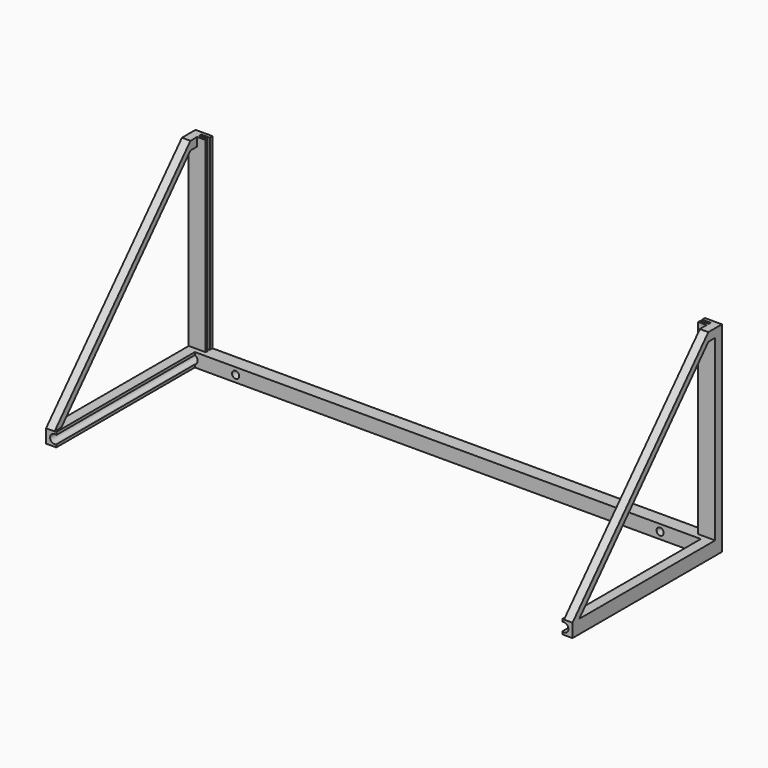
from build123d import *

# Parameters (mm, degrees)
SKETCH_W        = 310
SKETCH_H        = 110
PAD_DEPTH       = 8
PAD001_DEPTH    = 110
POCKET_DEPTH    = 500
POCKET001_DEPTH = 500
SKETCH006_R     = 2.625
POCKET002_DEPTH = 500
SKETCH007_W     = 298
SKETCH007_H     = 8
POCKET003_DEPTH = 102
SKETCH009_W     = 300
SKETCH009_H     = 1.5
POCKET004_DEPTH = 110
SKETCH010_W     = 290
SKETCH010_H     = 10
POCKET005_DEPTH = 110
SKETCH011_R     = 2.1
POCKET006_DEPTH = 500


with BuildPart() as part:
    # Sketch → Pad (new body)
    with BuildSketch(Plane.XY):
        with Locations((155, 55)):
            Rectangle(SKETCH_W, SKETCH_H)
    extrude(amount=PAD_DEPTH)

    # Sketch001 (on Face6 of Pad) → Pad001 (join)
    with BuildSketch(Plane.XY.offset(8)):
        Polygon((0, 0), (0, 110), (310, 110), (310, 0), (305, 0), (305, 105), (5, 105), (5, 0), align=None)
    extrude(amount=PAD001_DEPTH)

    # Sketch004 (on Face9 of Pad001) → Pocket (cut)
    with BuildSketch(Plane(origin=(0, 0, 0), x_dir=(0, -1, 0), z_dir=(-1, 0, 0))):
        Polygon((-100, 118), (0, 118), (0, 8), align=None)
    extrude(amount=-POCKET_DEPTH, mode=Mode.SUBTRACT)

    # Sketch005 (on Face9 of Pocket) → Pocket001 (cut)
    with BuildSketch(Plane(origin=(0, 0, 0), x_dir=(0, -1, 0), z_dir=(-1, 0, 0))):
        Polygon((-100, 113), (-5, 8), (-105, 8), (-105, 113), align=None)
    extrude(amount=-POCKET001_DEPTH, mode=Mode.SUBTRACT)

    # Sketch006 (on Face1 of Pocket001) → Pocket002 (cut)
    with BuildSketch(Plane.XZ):
        with Locations((5, 4)):
            Circle(SKETCH006_R)
        with Locations((305, 4)):
            Circle(SKETCH006_R)
    extrude(amount=-POCKET002_DEPTH, mode=Mode.SUBTRACT)

    # Sketch007 (on Face1 of Pocket002) → Pocket003 (cut)
    with BuildSketch(Plane.XZ):
        with Locations((155, 4)):
            Rectangle(SKETCH007_W, SKETCH007_H)
    extrude(amount=-POCKET003_DEPTH, mode=Mode.SUBTRACT)

    # Sketch009 (on Face17 of Pocket003) → Pocket004 (cut)
    with BuildSketch(Plane.XY.offset(118)):
        with Locations((155, 107.25)):
            Rectangle(SKETCH009_W, SKETCH009_H)
    extrude(amount=-POCKET004_DEPTH, mode=Mode.SUBTRACT)

    # Sketch010 (on Face17 of Pocket004) → Pocket005 (cut)
    with BuildSketch(Plane.XY.offset(118)):
        with Locations((155, 107)):
            Rectangle(SKETCH010_W, SKETCH010_H)
    extrude(amount=-POCKET005_DEPTH, mode=Mode.SUBTRACT)

    # Sketch011 (on Face13 of Pocket005) → Pocket006 (cut)
    with BuildSketch(Plane.XZ.offset(-102)):
        with Locations((30, 4)):
            Circle(SKETCH011_R)
        with Locations((280, 4)):
            Circle(SKETCH011_R)
    extrude(amount=-POCKET006_DEPTH, mode=Mode.SUBTRACT)


solid = part.part
